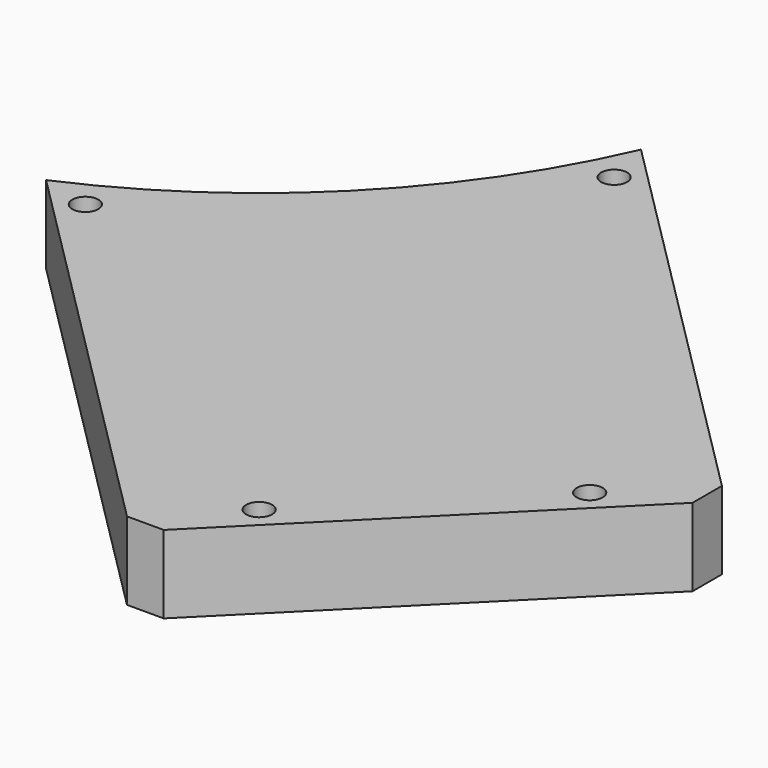
from build123d import *

# Parameters (mm, degrees)
CYLINDER2005_R               = 1.5
CYLINDER2005_DEPTH           = 60
CYLINDER2002_R               = 1.5
CYLINDER2002_DEPTH           = 60
CYLINDER2003_R               = 1.5
CYLINDER2003_DEPTH           = 60
CYLINDER2004_R               = 1.5
CYLINDER2004_DEPTH           = 60
COMPOUND1081_PLACEMENT_ANGLE = 225
CYLINDER1969_R               = 74
CYLINDER1969_DEPTH           = 40
BOX980_W                     = 42
BOX980_H                     = 72
BOX980_DEPTH                 = 50
COMPOUND1061_PLACEMENT_ANGLE = 225
BOX981_W                     = 54
BOX981_H                     = 78
BOX981_DEPTH                 = 9
COMPOUND1062_PLACEMENT_ANGLE = 225
CHAMFER072_SIZE              = 3


with BuildPart() as obj1:
    # Cylinder2005 → Cylinder2005 (new body)
    with BuildSketch(Plane(origin=(-24, 74, -80), x_dir=(1, 0, 0), z_dir=(0, 0, 1))):
        Circle(CYLINDER2005_R)
    extrude(amount=CYLINDER2005_DEPTH)


with BuildPart() as obj2:
    # Cylinder2002 → Cylinder2002 (new body)
    with BuildSketch(Plane(origin=(-15, 135, -80), x_dir=(1, 0, 0), z_dir=(0, 0, 1))):
        Circle(CYLINDER2002_R)
    extrude(amount=CYLINDER2002_DEPTH)


with BuildPart() as obj3:
    # Cylinder2003 → Cylinder2003 (new body)
    with BuildSketch(Plane(origin=(15, 135, -80), x_dir=(1, 0, 0), z_dir=(0, 0, 1))):
        Circle(CYLINDER2003_R)
    extrude(amount=CYLINDER2003_DEPTH)


with BuildPart() as compound1081:
    # Cylinder2004 → Cylinder2004 (new body)
    with BuildSketch(Plane(origin=(24, 74, -80), x_dir=(1, 0, 0), z_dir=(0, 0, 1))):
        Circle(CYLINDER2004_R)
    extrude(amount=CYLINDER2004_DEPTH)

    # Compound1081: union obj1, obj2, obj3
    add(obj1.part)
    add(obj2.part)
    add(obj3.part)


with BuildPart() as compound1081_1:
    # Compound1081 placement: moved
    add(compound1081.part.moved(Location((0, 0, 109))).rotate(Axis((0, 0, 109), (0, 0, 1)), COMPOUND1081_PLACEMENT_ANGLE))


with BuildPart() as obj4:
    # Cylinder1969 → Cylinder1969 (new body)
    with BuildSketch(Plane.XY.offset(44)):
        Circle(CYLINDER1969_R)
    extrude(amount=CYLINDER1969_DEPTH)


with BuildPart() as compound1061:
    # Box980 → Box980 (new body)
    with BuildSketch(Plane(origin=(-21.001071, 60.005081, 31), x_dir=(1, 0, 0), z_dir=(0, 0, 1))):
        with Locations((21, 36)):
            Rectangle(BOX980_W, BOX980_H)
    extrude(amount=BOX980_DEPTH)


with BuildPart() as compound1061_1:
    # Compound1061 placement: moved
    add(compound1061.part.moved(Location((0, 0, 1))).rotate(Axis((0, 0, 1), (0, 0, 1)), COMPOUND1061_PLACEMENT_ANGLE))


with BuildPart() as cut677:
    # Box981 → Box981 (new body)
    with BuildSketch(Plane(origin=(-27.004408, 59.99801, 75), x_dir=(1, 0, 0), z_dir=(0, 0, 1))):
        with Locations((27, 39)):
            Rectangle(BOX981_W, BOX981_H)
    extrude(amount=BOX981_DEPTH)


with BuildPart() as cut677_1:
    # Compound1062 placement: moved
    add(cut677.part.rotate(Axis((0, 0, 0), (0, 0, 1)), COMPOUND1062_PLACEMENT_ANGLE))

    # Cut662: cut Compound1061
    add(compound1061_1.part, mode=Mode.SUBTRACT)

    # Cut663: cut obj4
    add(obj4.part, mode=Mode.SUBTRACT)

    # Chamfer072
    chamfer072_edges = [cut677_1.edges().sort_by_distance(p)[0] for p in [
        (116.674329, -78.484329, 79.5),
        (78.490563, -116.668095, 79.5),
    ]]
    chamfer(chamfer072_edges, length=CHAMFER072_SIZE)

    # Cut677: cut Compound1081
    add(compound1081_1.part, mode=Mode.SUBTRACT)


solid = cut677_1.part
